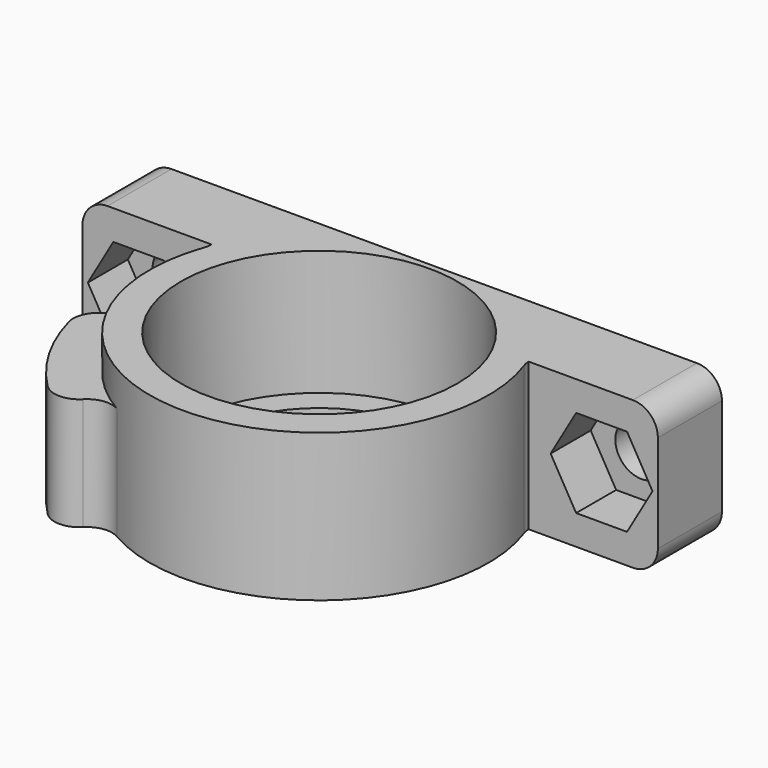
from build123d import *

# Parameters (mm, degrees)
PAD002_DEPTH    = 5.55
POCKET001_DEPTH = 0.5
POCKET002_DEPTH = 0.5
PAD003_DEPTH    = 2.5
PAD001_DEPTH    = 9
SKETCH_R        = 9
PAD_DEPTH       = 11.8
SKETCH001_R     = 11.05
POCKET_DEPTH    = 10
SKETCH010_R     = 1.55
POCKET003_DEPTH = 5
FILLET_R        = 1.8
SKETCH012_W     = 10.3286741025
SKETCH012_H     = 11.8
PAD004_DEPTH    = 2.4
SKETCH011_R     = 2.1
POCKET004_DEPTH = 6.4010000001
POCKET005_DEPTH = 4
FILLET001_R     = 2
FILLET002_R     = 2
FILLET003_R     = 2


with BuildPart() as pad003:
    # Sketch004 → Pad002 (new body)
    with BuildSketch(Plane.XY.offset(2.225)):
        Polygon((-11.1717282118, -2.7499991288), (-7.9674332118, -8.3000008712), (-8.4004459137, -8.5500008712), (-11.6047409137, -2.9999991288), align=None)
    extrude(amount=PAD002_DEPTH)

    # Sketch006 → Pocket001 (cut)
    with BuildSketch(Plane(origin=(-9.5695807118, -5.525, 2.225), x_dir=(-0.5, 0.8660254038, 0), z_dir=(0.8660254038, 0.5, 0))):
        Polygon((-3.204295, 2.7750019602), (-1.6021491347, 5.55), (-3.204295, 5.55), align=None)
        Polygon((1.6021478772, 0), (3.204295, 0), (3.204295, 2.7750019602), align=None)
    extrude(amount=-POCKET001_DEPTH, mode=Mode.SUBTRACT)

    # Sketch008 → Pocket002 (cut)
    with BuildSketch(Plane(origin=(-9.5695807118, -5.525, 2.225), x_dir=(-0.5, 0.8660254038, 0), z_dir=(0.8660254038, 0.5, 0))):
        Polygon((1.6021478772, 5.5500030493), (3.204295, 5.5500030493), (3.204295, 2.7750019602), align=None)
        Polygon((-1.6021478772, 0), (-3.2042957545, 0), (-3.2042957545, 2.7750015246), align=None)
    extrude(amount=-POCKET002_DEPTH, mode=Mode.SUBTRACT)

    # Sketch009 → Pad003 (new body, symmetric)
    with BuildSketch(Plane(origin=(-9.5695807118, -5.525, 2.225), x_dir=(-0.5, 0.8660254038, 0), z_dir=(0.8660254038, 0.5, 0))):
        Polygon((1.6021491347, -7.4054e-06), (3.2042982695, 2.7749962973), (1.6021491347, 5.55), (-1.6021491347, 5.55), (-3.2042982695, 2.7749962973), (-1.6021491347, -7.4054e-06), align=None)
    extrude(amount=PAD003_DEPTH, both=True)


with BuildPart() as pad001:
    # Sketch003 → Pad001 (new body)
    with BuildSketch(Plane.XY):
        with BuildLine():
            ThreePointArc((-10.9554657182, -1.442314424), (-9.5695807118, -5.525), (-6.7268137905, -8.7665544102))
            Line((-10.3793823646, -13.526674452), (-6.7268137905, -8.7665544102))
            ThreePointArc((-16.9041348864, -2.2254715773), (-14.7657331345, -8.525), (-10.3793823646, -13.526674452))
            Line((-10.9554657182, -1.442314424), (-16.9041348864, -2.2254715773))
        make_face()
    extrude(amount=PAD001_DEPTH)


with BuildPart() as fillet003:
    # Sketch → Pad (new body)
    with BuildSketch(Plane.XY):
        with BuildLine():
            Line((-23, 11.5), (23, 11.5))
            Line((23, 11.5), (23, 7.5))
            Line((23, 7.5), (15, 7.5))
            Line((12.6713258975, 7.5), (15, 7.5))
            Line((12.6713258975, 4.8), (12.6713258975, 7.5))
            ThreePointArc((-12.6713258975, 4.8), (0, -13.55), (12.6713258975, 4.8))
            Line((-12.6713258975, 7.5), (-12.6713258975, 4.8))
            Line((-15, 7.5), (-12.6713258975, 7.5))
            Line((-15, 7.5), (-23, 7.5))
            Line((-23, 7.5), (-23, 11.5))
        make_face()
        Circle(SKETCH_R, mode=Mode.SUBTRACT)
    extrude(amount=PAD_DEPTH)

    # Sketch001 → Pocket (cut)
    with BuildSketch(Plane.XY.offset(11.8)):
        Circle(SKETCH001_R)
    extrude(amount=-POCKET_DEPTH, mode=Mode.SUBTRACT)

    # Fusion: union Pad001
    add(pad001.part)

    # Cut: cut Pad003
    add(pad003.part, mode=Mode.SUBTRACT)

    # Sketch010 → Pocket003 (cut)
    with BuildSketch(Plane(origin=(-11.7346442213, -6.775, 0), x_dir=(-0.5, 0.8660254038, 0), z_dir=(0.8660254038, 0.5, 0))):
        with Locations((0, 4.9999962973)):
            Circle(SKETCH010_R)
    extrude(amount=-POCKET003_DEPTH, mode=Mode.SUBTRACT)

    # Fillet
    fillet_edges = [fillet003.edges().sort_by_distance(p)[0] for p in [
        (-12.671326, 4.8, 5.9),
        (12.671326, 4.8, 5.9),
    ]]
    fillet(fillet_edges, radius=FILLET_R)

    # Sketch012 → Pad004 (new body)
    with BuildSketch(Plane.XZ.offset(-7.5)):
        with Locations((-17.8356629487, 5.9)):
            Rectangle(SKETCH012_W, SKETCH012_H)
        with Locations((17.8356629487, 5.9)):
            Rectangle(SKETCH012_W, SKETCH012_H)
    extrude(amount=PAD004_DEPTH)

    # Sketch011 → Pocket004 (cut, through all)
    with BuildSketch(Plane.XZ.offset(-5.1)):
        with Locations((-18.5, 5.9)):
            Circle(SKETCH011_R)
        with Locations((18.5, 5.9)):
            Circle(SKETCH011_R)
    extrude(amount=-POCKET004_DEPTH, mode=Mode.SUBTRACT)

    # Sketch013 → Pocket005 (cut)
    with BuildSketch(Plane.XZ.offset(-5.1)):
        Polygon((-14.4296806022, 5.9), (-16.4648403011, 9.425), (-20.5351596989, 9.425), (-22.5703193978, 5.9), (-20.5351596989, 2.375), (-16.4648403011, 2.375), align=None)
        Polygon((22.5703193978, 5.9), (20.5351596989, 9.425), (16.4648403011, 9.425), (14.4296806022, 5.9), (16.4648403011, 2.375), (20.5351596989, 2.375), align=None)
    extrude(amount=-POCKET005_DEPTH, mode=Mode.SUBTRACT)

    # Fillet001
    fillet001_edges = [fillet003.edges().sort_by_distance(p)[0] for p in [
        (-23, 6.3, 0),
        (-23, 9.5, 0),
        (-23, 9.5, 11.8),
        (-23, 6.3, 11.8),
        (23, 6.3, 0),
        (23, 9.5, 0),
        (23, 9.5, 11.8),
        (23, 6.3, 11.8),
    ]]
    fillet(fillet001_edges, radius=FILLET001_R)

    # Fillet002
    fillet002_edges = [fillet003.edges().sort_by_distance(p)[0] for p in [
        (-8.248717, -10.749938, 4.5),
        (-13.434078, -1.76863, 4.5),
    ]]
    fillet(fillet002_edges, radius=FILLET002_R)

    # Fillet003
    fillet003_edges = [fillet003.edges().sort_by_distance(p)[0] for p in [
        (-10.379382, -13.526674, 4.5),
        (-16.904135, -2.225472, 4.5),
    ]]
    fillet(fillet003_edges, radius=FILLET003_R)


solid = fillet003.part
